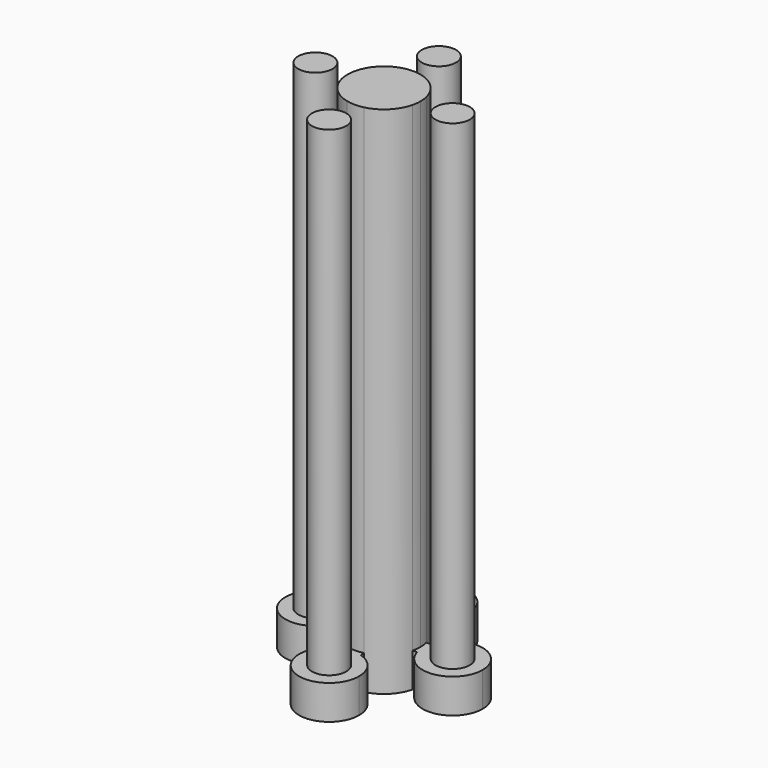
from build123d import *

# Parameters (mm, degrees)
F0_R     = 2
F0_W     = 2
F0_H     = 2
F1_DEPTH = 4
F2_DEPTH = 60


with BuildPart() as f1:
    # F0 (on Top) → F1 (new body)
    with BuildSketch(Plane.XY):
        with BuildLine():
            ThreePointArc((-4.5, 0), (-4.5366665709, 0.5052935375), (-4.6458980338, 1))
            ThreePointArc((-4.6458980338, 1), (-11.5, 0), (-4.6458980338, -1))
            ThreePointArc((-4.6458980338, -1), (-4.5366665709, -0.5052935375), (-4.5, 0))
        make_face()
        with Locations((-8, 0)):
            Circle(F0_R, mode=Mode.SUBTRACT)
        with BuildLine():
            ThreePointArc((-1, 4.6458980338), (0, 4.5), (1, 4.6458980338))
            ThreePointArc((1, 4.6458980338), (2.8062430401, 5.9083499337), (3.5, 8))
            ThreePointArc((3.5, 8), (-2.0916500663, 10.8062430401), (-1, 4.6458980338))
        make_face()
        with Locations((0, 8)):
            Circle(F0_R, mode=Mode.SUBTRACT)
        with BuildLine():
            ThreePointArc((11.5, 0), (8.5052935375, 3.4633334291), (4.6458980338, 1))
            ThreePointArc((4.6458980338, 1), (4.5, 0), (4.6458980338, -1))
            ThreePointArc((4.6458980338, -1), (8.5052935375, -3.4633334291), (11.5, 0))
        make_face()
        with Locations((8, 0)):
            Circle(F0_R, mode=Mode.SUBTRACT)
        with BuildLine():
            ThreePointArc((3.5, -8), (2.8062430401, -5.9083499337), (1, -4.6458980338))
            ThreePointArc((1, -4.6458980338), (0, -4.5), (-1, -4.6458980338))
            ThreePointArc((-1, -4.6458980338), (-2.0916500663, -10.8062430401), (3.5, -8))
        make_face()
        with Locations((0, -8)):
            Circle(F0_R, mode=Mode.SUBTRACT)
        with Locations((-8, 0)):
            Circle(F0_R)
        with Locations((0, 8)):
            Circle(F0_R)
        with Locations((8, 0)):
            Circle(F0_R)
        with Locations((0, -8)):
            Circle(F0_R)
        with BuildLine():
            Line((1, 1), (1, 4.1306779105))
            ThreePointArc((1, 4.1306779105), (0, 4.25), (-1, 4.1306779105))
            Line((-1, 4.1306779105), (-1, 1))
            Line((-1, 1), (1, 1))
        make_face()
        with BuildLine():
            ThreePointArc((-1, -4.1306779105), (0, -4.25), (1, -4.1306779105))
            Line((1, -4.1306779105), (1, -1))
            Line((1, -1), (-1, -1))
            Line((-1, -1), (-1, -4.1306779105))
        make_face()
        with BuildLine():
            ThreePointArc((4.1306779105, -1), (4.2200640469, -0.50354686), (4.25, 0))
            ThreePointArc((4.25, 0), (4.2200640469, 0.50354686), (4.1306779105, 1))
            Line((4.1306779105, 1), (1, 1))
            Line((1, 1), (1, -1))
            Line((1, -1), (4.1306779105, -1))
        make_face()
        with BuildLine():
            Line((-1, -1), (-1, 1))
            Line((-1, 1), (-4.1306779105, 1))
            ThreePointArc((-4.1306779105, 1), (-4.25, 0), (-4.1306779105, -1))
            Line((-4.1306779105, -1), (-1, -1))
        make_face()
        Rectangle(F0_W, F0_H)
        with BuildLine():
            ThreePointArc((-4.1306779105, -1), (-4.25, 0), (-4.1306779105, 1))
            Line((-4.1306779105, 1), (-4.6458980338, 1))
            ThreePointArc((-4.6458980338, 1), (-4.5366665709, 0.5052935375), (-4.5, 0))
            ThreePointArc((-4.5, 0), (-4.5366665709, -0.5052935375), (-4.6458980338, -1))
            Line((-4.6458980338, -1), (-4.1306779105, -1))
        make_face()
        with BuildLine():
            ThreePointArc((4.1306779105, 1), (4.2200640469, 0.50354686), (4.25, 0))
            ThreePointArc((4.25, 0), (4.2200640469, -0.50354686), (4.1306779105, -1))
            Line((4.1306779105, -1), (4.6458980338, -1))
            ThreePointArc((4.6458980338, -1), (4.5, 0), (4.6458980338, 1))
            Line((4.6458980338, 1), (4.1306779105, 1))
        make_face()
        with BuildLine():
            Line((1, -4.6458980338), (1, -4.1306779105))
            ThreePointArc((1, -4.1306779105), (0, -4.25), (-1, -4.1306779105))
            Line((-1, -4.1306779105), (-1, -4.6458980338))
            ThreePointArc((-1, -4.6458980338), (0, -4.5), (1, -4.6458980338))
        make_face()
        with BuildLine():
            ThreePointArc((-1, 4.1306779105), (0, 4.25), (1, 4.1306779105))
            Line((1, 4.1306779105), (1, 4.6458980338))
            ThreePointArc((1, 4.6458980338), (0, 4.5), (-1, 4.6458980338))
            Line((-1, 4.6458980338), (-1, 4.1306779105))
        make_face()
    extrude(amount=F1_DEPTH)

    # F0 (on Top) → F2 (join)
    with BuildSketch(Plane.XY):
        with Locations((0, 8)):
            Circle(F0_R)
        with Locations((8, 0)):
            Circle(F0_R)
        with Locations((-8, 0)):
            Circle(F0_R)
        with Locations((0, -8)):
            Circle(F0_R)
        with BuildLine():
            ThreePointArc((-4.1306779105, -1), (-3.00520382, -3.00520382), (-1, -4.1306779105))
            Line((-1, -4.1306779105), (-1, -1))
            Line((-1, -1), (-4.1306779105, -1))
        make_face()
        with BuildLine():
            ThreePointArc((1, -4.1306779105), (3.00520382, -3.00520382), (4.1306779105, -1))
            Line((4.1306779105, -1), (1, -1))
            Line((1, -1), (1, -4.1306779105))
        make_face()
        with BuildLine():
            Line((1, 1), (4.1306779105, 1))
            ThreePointArc((4.1306779105, 1), (3.00520382, 3.00520382), (1, 4.1306779105))
            Line((1, 4.1306779105), (1, 1))
        make_face()
        with BuildLine():
            Line((-1, 1), (-1, 4.1306779105))
            ThreePointArc((-1, 4.1306779105), (-3.00520382, 3.00520382), (-4.1306779105, 1))
            Line((-4.1306779105, 1), (-1, 1))
        make_face()
        with BuildLine():
            Line((1, 1), (1, 4.1306779105))
            ThreePointArc((1, 4.1306779105), (0, 4.25), (-1, 4.1306779105))
            Line((-1, 4.1306779105), (-1, 1))
            Line((-1, 1), (1, 1))
        make_face()
        with BuildLine():
            Line((-1, -1), (-1, 1))
            Line((-1, 1), (-4.1306779105, 1))
            ThreePointArc((-4.1306779105, 1), (-4.25, 0), (-4.1306779105, -1))
            Line((-4.1306779105, -1), (-1, -1))
        make_face()
        with BuildLine():
            ThreePointArc((-1, -4.1306779105), (0, -4.25), (1, -4.1306779105))
            Line((1, -4.1306779105), (1, -1))
            Line((1, -1), (-1, -1))
            Line((-1, -1), (-1, -4.1306779105))
        make_face()
        Rectangle(F0_W, F0_H)
        with BuildLine():
            ThreePointArc((4.1306779105, -1), (4.2200640469, -0.50354686), (4.25, 0))
            ThreePointArc((4.25, 0), (4.2200640469, 0.50354686), (4.1306779105, 1))
            Line((4.1306779105, 1), (1, 1))
            Line((1, 1), (1, -1))
            Line((1, -1), (4.1306779105, -1))
        make_face()
    extrude(amount=F2_DEPTH)


solid = f1.part
